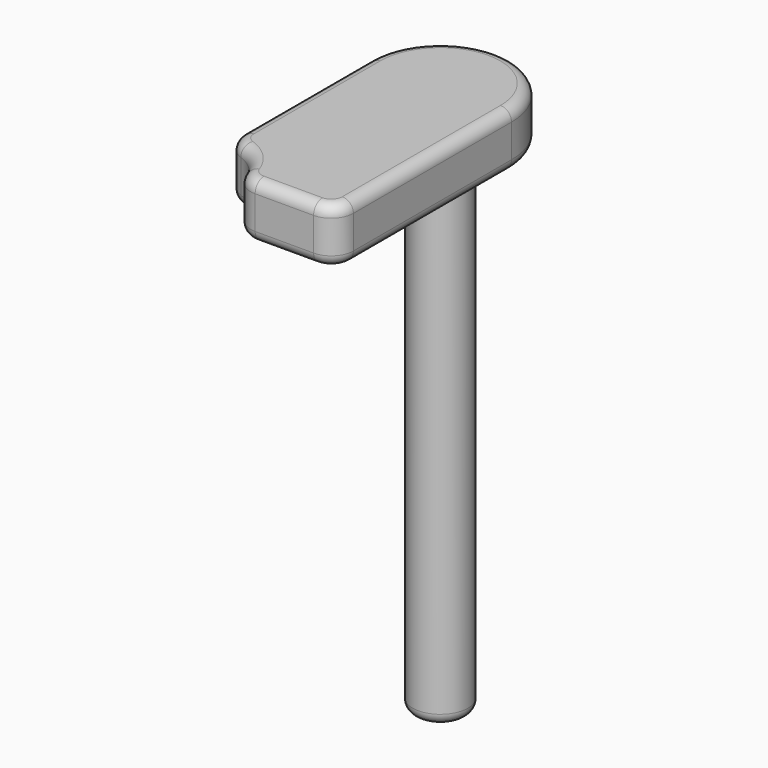
from build123d import *

# Parameters (mm, degrees)
F0_R     = 12.7
F1_DEPTH = 25.4
F2_R     = 12.7
F3_DEPTH = 254
F4_R     = 5.08
F5_R     = 10.16
F6_R     = 5.08


with BuildPart() as f1:
    # F0 (on Top) → F1 (new body)
    with BuildSketch(Plane.XY):
        with BuildLine():
            Line((26.491852, 17.019746), (26.491852, 118.097939))
            ThreePointArc((26.491852, 118.097939), (-6.261039, 150.85083), (-39.013931, 118.097939))
            Line((-39.013931, 118.097939), (-39.013931, 37.074262))
            ThreePointArc((-39.013931, 37.074262), (-24.833246, 31.20043), (-18.959414, 17.019746))
            Line((-18.959414, 17.019746), (26.491852, 17.019746))
        make_face()
        with Locations((-6.261039, 118.097939)):
            Circle(F0_R, mode=Mode.SUBTRACT)
    extrude(amount=F1_DEPTH)

    # F2 (on face) → F3 (join)
    with BuildSketch(Plane.XY.offset(25.4)):
        with Locations((-6.261039, 118.097939)):
            Circle(F2_R)
    extrude(amount=-F3_DEPTH)

    # F4
    f4_edges = [f1.edges().sort_by_distance(p)[0] for p in [
        (-18.961039, 118.097939, -228.6),
    ]]
    fillet(f4_edges, radius=F4_R)

    # F5
    f5_edges = [f1.edges().sort_by_distance(p)[0] for p in [
        (26.491852, 17.019746, 12.7),
        (-18.959414, 17.019746, 12.7),
        (-39.013931, 37.074262, 12.7),
    ]]
    fillet(f5_edges, radius=F5_R)

    # F6
    f6_edges = [f1.edges().sort_by_distance(p)[0] for p in [
        (-39.013931, 81.786381, 25.4),
        (-39.013931, 81.786381, 0),
    ]]
    fillet(f6_edges, radius=F6_R)


solid = f1.part
